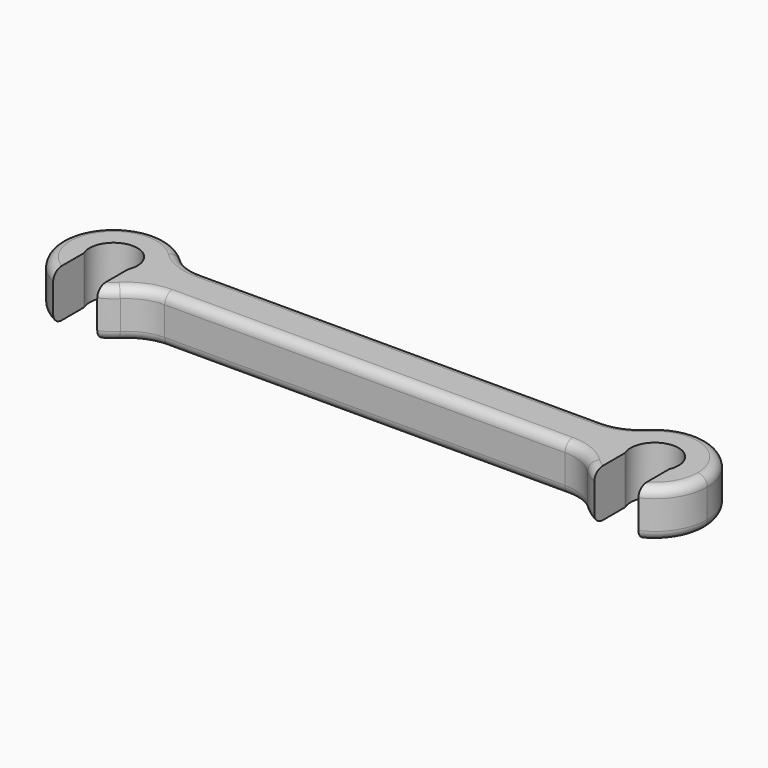
from build123d import *

# Parameters (mm, degrees)
F0_R     = 2.5
F1_DEPTH = 5
F2_R     = 5
F3_R     = 1
F4_W     = 4.6
F4_H     = 8.970495
F5_DEPTH = 5.001


with BuildPart() as f1:
    # F0 (on Top) → F1 (new body)
    with BuildSketch(Plane.XY):
        with BuildLine():
            ThreePointArc((23.351021, -2.5), (29.535615, -5.347634), (33.75, 0))
            ThreePointArc((33.75, 0), (29.535615, 5.347634), (23.351021, 2.5))
            ThreePointArc((23.351021, 2.5), (22.75, 0), (23.351021, -2.5))
        make_face()
        with Locations((28.25, 0)):
            Circle(F0_R, mode=Mode.SUBTRACT)
        with BuildLine():
            ThreePointArc((23.351021, -2.5), (22.75, 0), (23.351021, 2.5))
            Line((23.351021, 2.5), (-23.351021, 2.5))
            ThreePointArc((-23.351021, 2.5), (-22.902366, 1.285615), (-22.75, 0))
            ThreePointArc((-22.75, 0), (-22.902366, -1.285615), (-23.351021, -2.5))
            Line((-23.351021, -2.5), (23.351021, -2.5))
        make_face()
        with BuildLine():
            ThreePointArc((-22.75, 0), (-22.902366, 1.285615), (-23.351021, 2.5))
            ThreePointArc((-23.351021, 2.5), (-33.75, 0), (-23.351021, -2.5))
            ThreePointArc((-23.351021, -2.5), (-22.902366, -1.285615), (-22.75, 0))
        make_face()
        with Locations((-28.25, 0)):
            Circle(F0_R, mode=Mode.SUBTRACT)
    extrude(amount=F1_DEPTH)

    # F2
    f2_edges = [f1.edges().sort_by_distance(p)[0] for p in [
        (-23.351021, -2.5, 2.5),
        (-23.351021, 2.5, 2.5),
        (23.351021, 2.5, 2.5),
        (23.351021, -2.5, 2.5),
    ]]
    fillet(f2_edges, radius=F2_R)

    # F3
    f3_edges = [f1.edges().sort_by_distance(p)[0] for p in [
        (0, -2.5, 5),
        (0, -2.5, 0),
    ]]
    fillet(f3_edges, radius=F3_R)

    # F4 (on Top) → F5 (cut, through all)
    with BuildSketch(Plane.XY):
        with Locations((-28.25, -4.485247)):
            Rectangle(F4_W, F4_H)
        with Locations((28.25, -4.485247)):
            Rectangle(F4_W, F4_H)
    extrude(amount=F5_DEPTH, mode=Mode.SUBTRACT)


solid = f1.part
